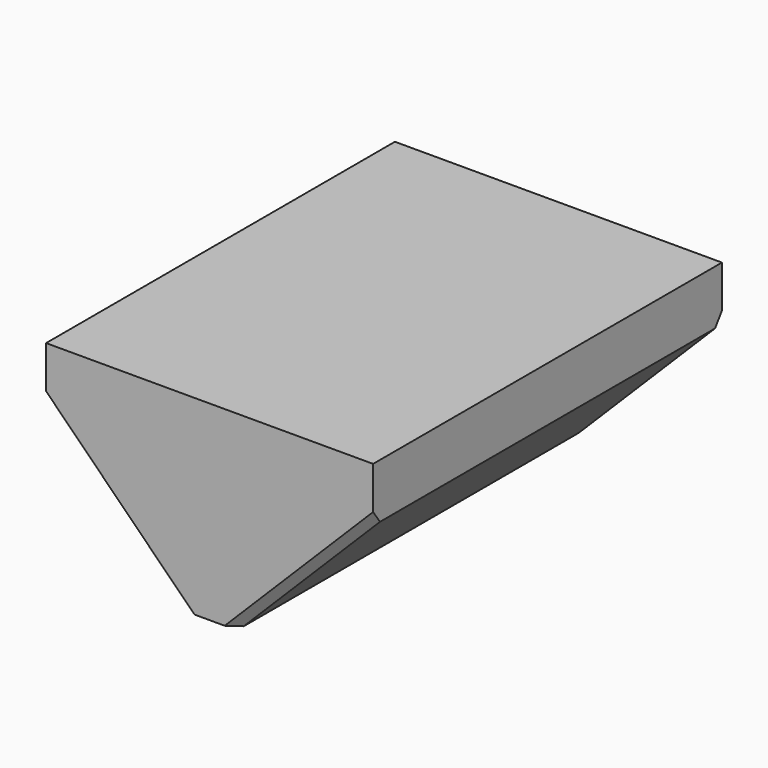
from build123d import *

# Parameters (mm, degrees)
F0_W     = 38.1
F0_H     = 50.8
F1_DEPTH = 22.225
F3_DEPTH = 50.801
F4_SIZE  = 1


with BuildPart() as f1:
    # F0 (on Top) → F1 (new body)
    with BuildSketch(Plane.XY):
        with Locations((19.05, 25.4)):
            Rectangle(F0_W, F0_H)
    extrude(amount=F1_DEPTH)

    # F2 (on face) → F3 (cut, through all)
    with BuildSketch(Plane.XZ):
        Polygon((38.1, 15.875), (22.225, 0), (38.1, 0), align=None)
        Polygon((0, 0), (15.875, 0), (0, 15.875), align=None)
    extrude(amount=-F3_DEPTH, mode=Mode.SUBTRACT)

    # F4
    f4_edges = [f1.edges().sort_by_distance(p)[0] for p in [
        (30.1625, 0, 7.9375),
        (7.9375, 0, 7.9375),
        (30.1625, 50.8, 7.9375),
        (7.9375, 50.8, 7.9375),
    ]]
    chamfer(f4_edges, length=F4_SIZE)


solid = f1.part
